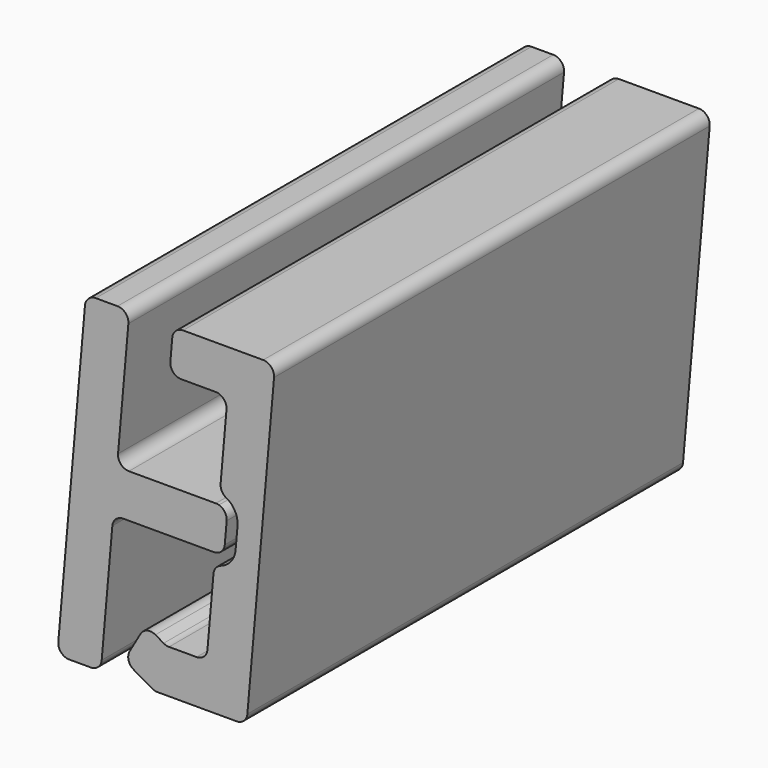
from build123d import *

# Parameters (mm, degrees)
F1_DEPTH = 25


with BuildPart() as f1:
    # F0 (on Front) → F1 (new body)
    with BuildSketch(Plane.XZ):
        with BuildLine():
            Line((-3.727602, 7.043578), (-4.952443, -6.956422))
            ThreePointArc((-4.952443, -6.956422), (-4.822984, -7.337795), (-4.454346, -7.5))
            Line((-4.454346, -7.5), (-3.458166, -7.5))
            ThreePointArc((-3.458166, -7.5), (-3.12037, -7.368639), (-2.960068, -7.043578))
            Line((-2.960068, -7.043578), (-2.471255, -1.456422))
            ThreePointArc((-2.471255, -1.456422), (-2.310953, -1.131361), (-1.973158, -1))
            Line((-1.973158, -1), (2.192069, -1))
            ThreePointArc((2.192069, -1), (2.220576, -0.999187), (2.248991, -0.996749))
            Line((2.248991, -0.996749), (2.421875, 0.979318))
            ThreePointArc((2.421875, 0.979318), (2.351464, 0.994803), (2.279558, 1))
            Line((2.279558, 1), (-1.710692, 1))
            ThreePointArc((-1.710692, 1), (-2.079331, 1.162205), (-2.208789, 1.543578))
            Line((-2.208789, 1.543578), (-1.735227, 6.956422))
            ThreePointArc((-1.735227, 6.956422), (-1.864686, 7.337795), (-2.233324, 7.5))
            Line((-2.233324, 7.5), (-3.229504, 7.5))
            ThreePointArc((-3.229504, 7.5), (-3.5673, 7.368639), (-3.727602, 7.043578))
        make_face()
        with BuildLine():
            Line((2.421875, 0.979318), (2.248991, -0.996749))
            ThreePointArc((2.248991, -0.996749), (2.550333, -0.84878), (2.690166, -0.543578))
            Line((2.690166, -0.543578), (2.777655, 0.456422))
            ThreePointArc((2.777655, 0.456422), (2.692943, 0.781269), (2.421875, 0.979318))
        make_face()
        with BuildLine():
            Line((4.454346, 7.5), (0.778135, 7.5))
            ThreePointArc((0.778135, 7.5), (0.44034, 7.368639), (0.280038, 7.043578))
            Line((0.280038, 7.043578), (0.192549, 6.043578))
            ThreePointArc((0.192549, 6.043578), (0.322008, 5.662205), (0.690647, 5.5))
            Line((0.690647, 5.5), (2.271729, 5.5))
            ThreePointArc((2.271729, 5.5), (2.640367, 5.337795), (2.769826, 4.956422))
            Line((2.769826, 4.956422), (2.498997, 1.860826))
            ThreePointArc((2.498997, 1.860826), (2.556487, 1.580889), (2.757915, 1.378165))
            ThreePointArc((2.757915, 1.378165), (3.160771, 0.972719), (3.275752, 0.412844))
            Line((3.275752, 0.412844), (3.188264, -0.587156))
            ThreePointArc((3.188264, -0.587156), (2.977808, -1.118558), (2.510667, -1.44789))
            ThreePointArc((2.510667, -1.44789), (2.277097, -1.612556), (2.171869, -1.878257))
            Line((2.171869, -1.878257), (1.894939, -5.043578))
            ThreePointArc((1.894939, -5.043578), (1.734637, -5.368639), (1.396842, -5.5))
            Line((1.396842, -5.5), (0.133975, -5.5))
            ThreePointArc((0.133975, -5.5), (0.004565, -5.482963), (-0.116025, -5.433013))
            Line((-0.116025, -5.433013), (-0.492953, -5.215393))
            ThreePointArc((-0.492953, -5.215393), (-0.872362, -5.165443), (-1.175966, -5.398406))
            Line((-1.175966, -5.398406), (-1.675966, -6.264432))
            ThreePointArc((-1.675966, -6.264432), (-1.725916, -6.643841), (-1.492953, -6.947444))
            Line((-1.492953, -6.947444), (-0.651924, -7.433013))
            ThreePointArc((-0.651924, -7.433013), (-0.531333, -7.482963), (-0.401924, -7.5))
            Line((-0.401924, -7.5), (3.229504, -7.5))
            ThreePointArc((3.229504, -7.5), (3.5673, -7.368639), (3.727602, -7.043578))
            Line((3.727602, -7.043578), (4.952443, 6.956422))
            ThreePointArc((4.952443, 6.956422), (4.822984, 7.337795), (4.454346, 7.5))
        make_face()
    extrude(amount=F1_DEPTH)


solid = f1.part
